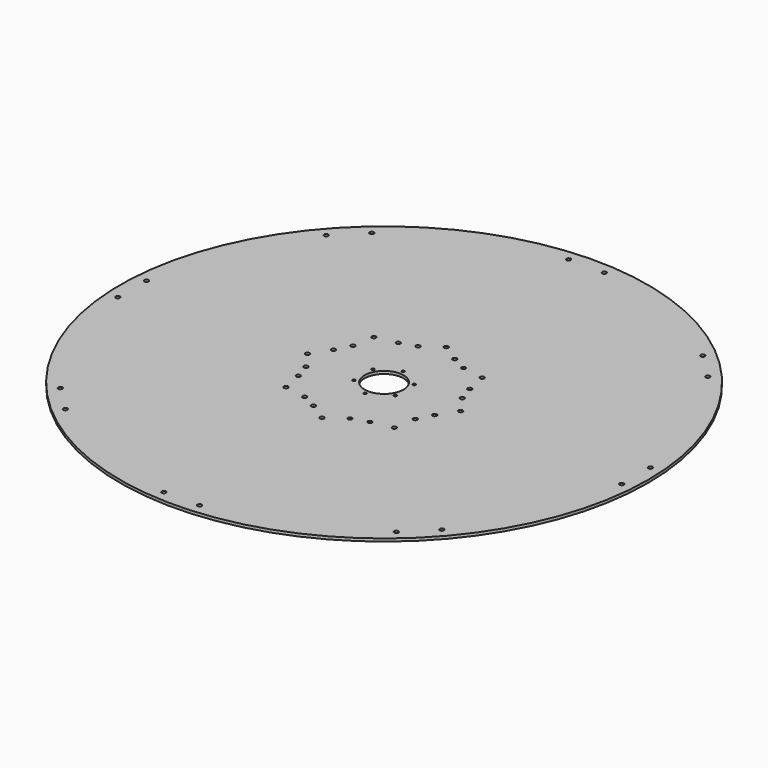
from build123d import *

# Parameters (mm, degrees)
F0_R     = 609.6
F0_R_2   = 4.826
F0_R_3   = 3.175
F0_R_4   = 44.9961
F1_DEPTH = 6.35


with BuildPart() as f1:
    # F0 (on Top) → F1 (new body)
    with BuildSketch(Plane.XY):
        Circle(F0_R)
        with Locations((-383.730187, -440.500605)):
            Circle(F0_R_2, mode=Mode.SUBTRACT)
        with Locations((-441.988335, -382.015644)):
            Circle(F0_R_2, mode=Mode.SUBTRACT)
        with Locations((-42.407097, -582.658801)):
            Circle(F0_R_2, mode=Mode.SUBTRACT)
        with Locations((-582.819183, -40.142748)):
            Circle(F0_R_2, mode=Mode.SUBTRACT)
        with Locations((-1.195725, -177.795979)):
            Circle(F0_R_2, mode=Mode.SUBTRACT)
        with Locations((-126.566248, -124.875237)):
            Circle(F0_R_2, mode=Mode.SUBTRACT)
        with Locations((-76.57454, -133.362918)):
            Circle(F0_R_2, mode=Mode.SUBTRACT)
        with Locations((-136.75852, -76.588043)):
            Circle(F0_R_2, mode=Mode.SUBTRACT)
        with Locations((-42.546952, -150.858801)):
            Circle(F0_R_2, mode=Mode.SUBTRACT)
        with Locations((-148.4482, -40.155448)):
            Circle(F0_R_2, mode=Mode.SUBTRACT)
        with Locations((-47.623603, -27.4955)):
            Circle(F0_R_3, mode=Mode.SUBTRACT)
        with Locations((40.142748, -582.819183)):
            Circle(F0_R_2, mode=Mode.SUBTRACT)
        with Locations((382.015644, -441.988335)):
            Circle(F0_R_2, mode=Mode.SUBTRACT)
        with Locations((440.500605, -383.730187)):
            Circle(F0_R_2, mode=Mode.SUBTRACT)
        with Locations((40.155448, -148.4482)):
            Circle(F0_R_2, mode=Mode.SUBTRACT)
        with Locations((76.588043, -136.75852)):
            Circle(F0_R_2, mode=Mode.SUBTRACT)
        with Locations((124.875237, -126.566248)):
            Circle(F0_R_2, mode=Mode.SUBTRACT)
        with Locations((133.362918, -76.57454)):
            Circle(F0_R_2, mode=Mode.SUBTRACT)
        with Locations((0, -54.991)):
            Circle(F0_R_3, mode=Mode.SUBTRACT)
        with Locations((47.623603, -27.4955)):
            Circle(F0_R_3, mode=Mode.SUBTRACT)
        with Locations((150.858801, -42.546952)):
            Circle(F0_R_2, mode=Mode.SUBTRACT)
        with Locations((177.795979, -1.195725)):
            Circle(F0_R_2, mode=Mode.SUBTRACT)
        with Locations((582.658801, -42.407097)):
            Circle(F0_R_2, mode=Mode.SUBTRACT)
        with Locations((-582.658801, 42.407097)):
            Circle(F0_R_2, mode=Mode.SUBTRACT)
        with Locations((-177.795979, 1.195725)):
            Circle(F0_R_2, mode=Mode.SUBTRACT)
        with Locations((-150.858801, 42.546952)):
            Circle(F0_R_2, mode=Mode.SUBTRACT)
        with Locations((-47.623603, 27.4955)):
            Circle(F0_R_3, mode=Mode.SUBTRACT)
        with Locations((-133.362918, 76.57454)):
            Circle(F0_R_2, mode=Mode.SUBTRACT)
        with Locations((-124.875237, 126.566248)):
            Circle(F0_R_2, mode=Mode.SUBTRACT)
        with Locations((-76.588043, 136.75852)):
            Circle(F0_R_2, mode=Mode.SUBTRACT)
        with Locations((-40.155448, 148.4482)):
            Circle(F0_R_2, mode=Mode.SUBTRACT)
        with Locations((-440.500605, 383.730187)):
            Circle(F0_R_2, mode=Mode.SUBTRACT)
        with Locations((-382.015644, 441.988335)):
            Circle(F0_R_2, mode=Mode.SUBTRACT)
        with Locations((-40.142748, 582.819183)):
            Circle(F0_R_2, mode=Mode.SUBTRACT)
        Circle(F0_R_4, mode=Mode.SUBTRACT)
        with Locations((47.623603, 27.4955)):
            Circle(F0_R_3, mode=Mode.SUBTRACT)
        with Locations((0, 54.991)):
            Circle(F0_R_3, mode=Mode.SUBTRACT)
        with Locations((148.4482, 40.155448)):
            Circle(F0_R_2, mode=Mode.SUBTRACT)
        with Locations((42.546952, 150.858801)):
            Circle(F0_R_2, mode=Mode.SUBTRACT)
        with Locations((136.75852, 76.588043)):
            Circle(F0_R_2, mode=Mode.SUBTRACT)
        with Locations((76.57454, 133.362918)):
            Circle(F0_R_2, mode=Mode.SUBTRACT)
        with Locations((126.566248, 124.875237)):
            Circle(F0_R_2, mode=Mode.SUBTRACT)
        with Locations((1.195725, 177.795979)):
            Circle(F0_R_2, mode=Mode.SUBTRACT)
        with Locations((582.819183, 40.142748)):
            Circle(F0_R_2, mode=Mode.SUBTRACT)
        with Locations((42.407097, 582.658801)):
            Circle(F0_R_2, mode=Mode.SUBTRACT)
        with Locations((441.988335, 382.015644)):
            Circle(F0_R_2, mode=Mode.SUBTRACT)
        with Locations((383.730187, 440.500605)):
            Circle(F0_R_2, mode=Mode.SUBTRACT)
    extrude(amount=F1_DEPTH)


solid = f1.part
